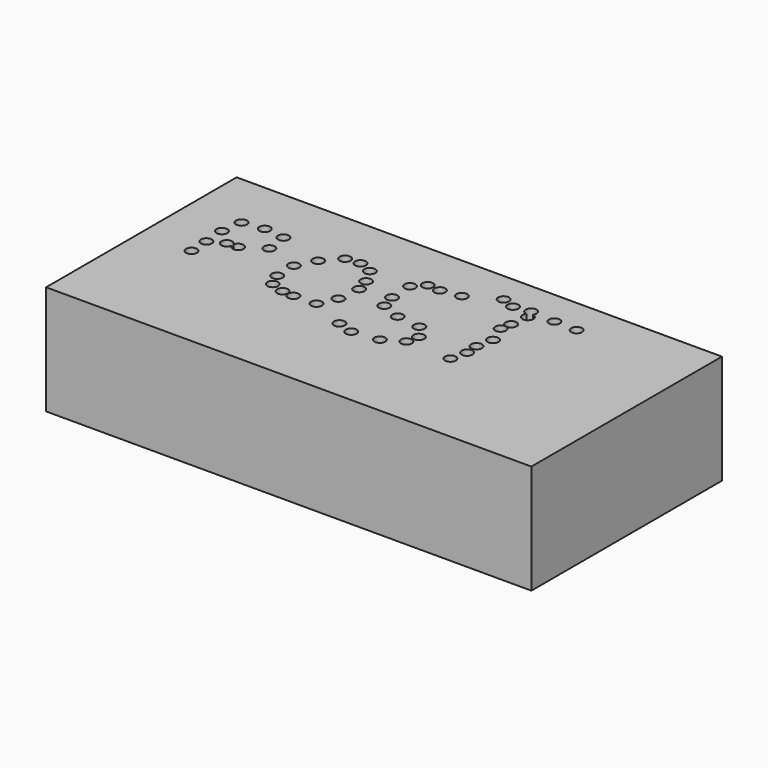
from build123d import *

# Parameters (mm, degrees)
F0_W       = 225.5908995867
F0_H       = 110.7080131769
F1_DEPTH   = 25.4
F4_D       = 5.08
F4_ON_F3_D = 5.08


with BuildPart() as f1:
    # F0 (on Top) → F1 (new body)
    with BuildSketch(Plane.XY):
        Rectangle(F0_W, F0_H)
    extrude(amount=F1_DEPTH)

    # F4 (through all)
    with Locations(Plane(origin=(0, 0, 0), x_dir=(1, 0, 0), z_dir=(0, 0, -1))):
        with Locations((-89.1955047846, -28.7043005228), (-79.5057713985, -30.0970748067), (-69.9255764484, -28.9903935045), (-68.5980245471, -19.1571637988), (-78.1845897436, -12.9927601665), (-83.154708147, -12.6179577783), (-90.5335843563, -19.003495574), (-89.870005846, -9.1491872445), (-89.4763618708, 0), (-35.4230366647, -30.6281708181), (-42.043376714, -29.9839507788), (-48.6943908036, -22.6104743779), (-53.1893521547, -14.1117144376), (-52.9635697603, -4.1349874809), (-50.1413084567, 1.9611027092), (-28.1036905944, 4.083125852), (-24.3639256805, -3.957584966), (-38.5011509061, 4.5216716826), (-43.8372641802, 4.1484474204), (1.2550167739, -6.3989050686), (-11.9153521955, 11.0068321228), (-4.5298971236, 13.3858900517), (7.5309276581, 11.8151064962), (17.2491893172, 1.2902654707), (15.9244015813, 6.9156782702), (12.3532637954, -5.088057369), (-7.884927094, -10.0290328264), (-23.1754053384, -14.5218074322), (-28.9888959378, -28.0108693987), (-25.011414662, -20.8662394434), (-9.768307209, -16.8593600392), (-10.1366043091, -27.7768112719), (22.8765979409, -40.9418046474), (29.0453359485, -38.6429131031), (36.6399362683, -39.7155433893), (48.0803251266, -38.8907343149), (58.6461164057, -38.6321358383), (9.3805007637, -33.504512161), (0.3481768072, -32.0298522711), (-5.6142956018, -32.4345678091), (38.4009592235, -35.6136150658)):
            Hole(F4_D / 2)

    # F4 on F3 (through all)
    with Locations(Plane(origin=(0, 0, 0), x_dir=(1, 0, 0), z_dir=(0, 0, -1))):
        with Locations((36.813724786, 7.4405698106), (38.6443585157, 0), (38.1508171558, -6.0257110745), (39.7485755384, -13.6793162674), (36.3263972104, -22.3615150899), (37.1932201087, -27.3784212768)):
            Hole(F4_ON_F3_D / 2)

    # F5: F1 across plane


with BuildPart() as f1_1:
    add(f1.part)
    add(f1.part.mirror(Plane.XY))


solid = f1_1.part
